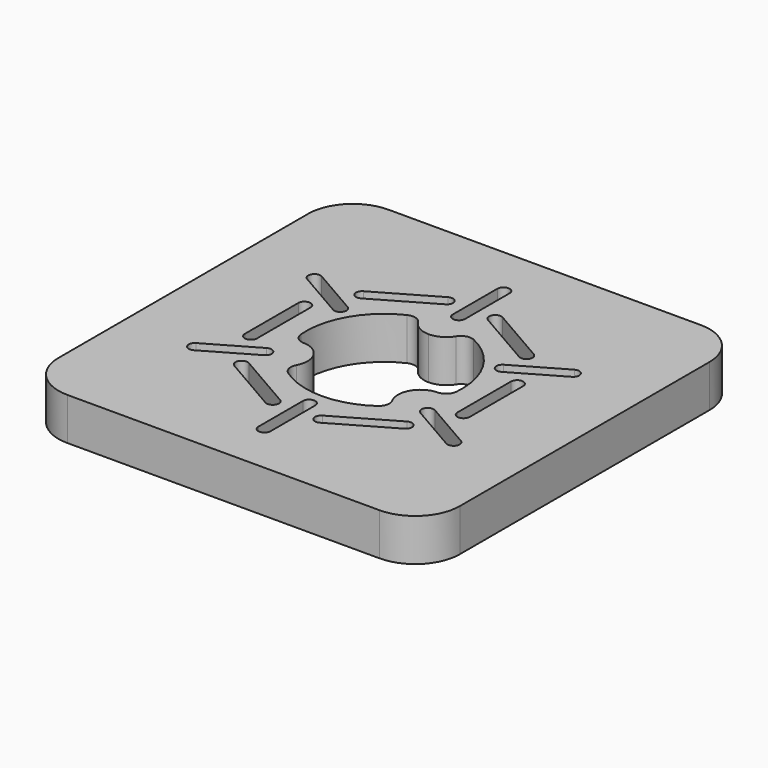
from build123d import *

# Parameters (mm, degrees)
F1_DEPTH = 19
F5_DEPTH = 19.001
F6_DEPTH = 14
F7_R     = 5


with BuildPart() as f1:
    # F0 (on Top) → F1 (new body)
    with BuildSketch(Plane.XY):
        with BuildLine():
            ThreePointArc((0, 20), (5.857864, 5.857864), (20, 0))
            Line((20, 0), (160, 0))
            ThreePointArc((160, 0), (174.142136, 5.857864), (180, 20))
            Line((180, 20), (180, 160))
            ThreePointArc((180, 160), (174.142136, 174.142136), (160, 180))
            Line((160, 180), (20, 180))
            ThreePointArc((20, 180), (5.857864, 174.142136), (0, 160))
            Line((0, 160), (0, 20))
        make_face()
    extrude(amount=F1_DEPTH)

    # F4 (on face) → F5 (cut, through all)
    with BuildSketch(Plane.XY.offset(19)):
        with BuildLine():
            ThreePointArc((124.022427, 81.785714), (120.310889, 107.5), (99.897433, 123.571429))
            ThreePointArc((99.897433, 123.571429), (96.546537, 117.440711), (90, 115))
            ThreePointArc((90, 115), (83.453463, 117.440711), (80.102567, 123.571429))
            ThreePointArc((80.102567, 123.571429), (59.689111, 107.5), (55.977573, 81.785714))
            ThreePointArc((55.977573, 81.785714), (62.962379, 81.949112), (68.349365, 77.5))
            ThreePointArc((68.349365, 77.5), (69.508916, 70.610178), (65.875007, 64.642857))
            ThreePointArc((65.875007, 64.642857), (90, 55), (114.124993, 64.642857))
            ThreePointArc((114.124993, 64.642857), (110.491084, 70.610178), (111.650635, 77.5))
            ThreePointArc((111.650635, 77.5), (117.037621, 81.949112), (124.022427, 81.785714))
        make_face()
    extrude(amount=-F5_DEPTH, mode=Mode.SUBTRACT)

    # F2 (on face) + F3 (on face) → F6 (cut)
    with BuildSketch(Plane.XY.offset(19)):
        with BuildLine():
            ThreePointArc((45.05304, 105), (42.30304, 107.75), (39.55304, 105))
            Line((39.55304, 105), (39.55304, 75))
            ThreePointArc((39.55304, 75), (42.30304, 72.25), (45.05304, 75))
            Line((45.05304, 75), (45.05304, 105))
        make_face()
        with BuildLine():
            ThreePointArc((51.786139, 126.188349), (50.779569, 122.431779), (54.536139, 121.425209))
            Line((54.536139, 121.425209), (80.516901, 136.425209))
            ThreePointArc((80.516901, 136.425209), (81.523471, 140.181779), (77.766901, 141.188349))
            Line((77.766901, 141.188349), (51.786139, 126.188349))
        make_face()
        with BuildLine():
            ThreePointArc((102.233099, 141.188349), (98.476529, 140.181779), (99.483099, 136.425209))
            Line((99.483099, 136.425209), (125.463861, 121.425209))
            ThreePointArc((125.463861, 121.425209), (129.220431, 122.431779), (128.213861, 126.188349))
            Line((128.213861, 126.188349), (102.233099, 141.188349))
        make_face()
        with BuildLine():
            ThreePointArc((140.44696, 105), (137.69696, 107.75), (134.94696, 105))
            Line((134.94696, 105), (134.94696, 75))
            ThreePointArc((134.94696, 75), (137.69696, 72.25), (140.44696, 75))
            Line((140.44696, 75), (140.44696, 105))
        make_face()
        with BuildLine():
            ThreePointArc((128.213861, 53.811651), (129.220431, 57.568221), (125.463861, 58.574791))
            Line((125.463861, 58.574791), (99.483099, 43.574791))
            ThreePointArc((99.483099, 43.574791), (98.476529, 39.818221), (102.233099, 38.811651))
            Line((102.233099, 38.811651), (128.213861, 53.811651))
        make_face()
        with BuildLine():
            ThreePointArc((77.766901, 38.811651), (81.523471, 39.818221), (80.516901, 43.574791))
            Line((80.516901, 43.574791), (54.536139, 58.574791))
            ThreePointArc((54.536139, 58.574791), (50.779569, 57.568221), (51.786139, 53.811651))
            Line((51.786139, 53.811651), (77.766901, 38.811651))
        make_face()
    with BuildSketch(Plane.XY.offset(19)):
        with BuildLine():
            ThreePointArc((87.25, 23), (90, 20.25), (92.75, 23))
            Line((92.75, 23), (92.75, 48))
            ThreePointArc((92.75, 48), (90, 50.75), (87.25, 48))
            Line((87.25, 48), (87.25, 23))
        make_face()
        with BuildLine():
            ThreePointArc((30.601298, 58.88157), (29.594728, 55.125), (33.351298, 54.11843))
            Line((33.351298, 54.11843), (55.001933, 66.61843))
            ThreePointArc((55.001933, 66.61843), (56.008503, 70.375), (52.251933, 71.38157))
            Line((52.251933, 71.38157), (30.601298, 58.88157))
        make_face()
        with BuildLine():
            ThreePointArc((33.351298, 125.88157), (29.594728, 124.875), (30.601298, 121.11843))
            Line((30.601298, 121.11843), (52.251933, 108.61843))
            ThreePointArc((52.251933, 108.61843), (56.008503, 109.625), (55.001933, 113.38157))
            Line((55.001933, 113.38157), (33.351298, 125.88157))
        make_face()
        with BuildLine():
            ThreePointArc((92.75, 157), (90, 159.75), (87.25, 157))
            Line((87.25, 157), (87.25, 132))
            ThreePointArc((87.25, 132), (90, 129.25), (92.75, 132))
            Line((92.75, 132), (92.75, 157))
        make_face()
        with BuildLine():
            ThreePointArc((149.398702, 121.11843), (150.405272, 124.875), (146.648702, 125.88157))
            Line((146.648702, 125.88157), (124.998067, 113.38157))
            ThreePointArc((124.998067, 113.38157), (123.991497, 109.625), (127.748067, 108.61843))
            Line((127.748067, 108.61843), (149.398702, 121.11843))
        make_face()
        with BuildLine():
            ThreePointArc((146.648702, 54.11843), (150.405272, 55.125), (149.398702, 58.88157))
            Line((149.398702, 58.88157), (127.748067, 71.38157))
            ThreePointArc((127.748067, 71.38157), (123.991497, 70.375), (124.998067, 66.61843))
            Line((124.998067, 66.61843), (146.648702, 54.11843))
        make_face()
    extrude(amount=-F6_DEPTH, mode=Mode.SUBTRACT)

    # F7
    f7_edges = [f1.edges().sort_by_distance(p)[0] for p in [
        (80.102567, 123.571429, 9.5),
        (99.897433, 123.571429, 9.5),
        (55.977573, 81.785714, 9.5),
        (65.875007, 64.642857, 9.5),
        (114.124993, 64.642857, 9.5),
        (124.022427, 81.785714, 9.5),
    ]]
    fillet(f7_edges, radius=F7_R)


solid = f1.part
